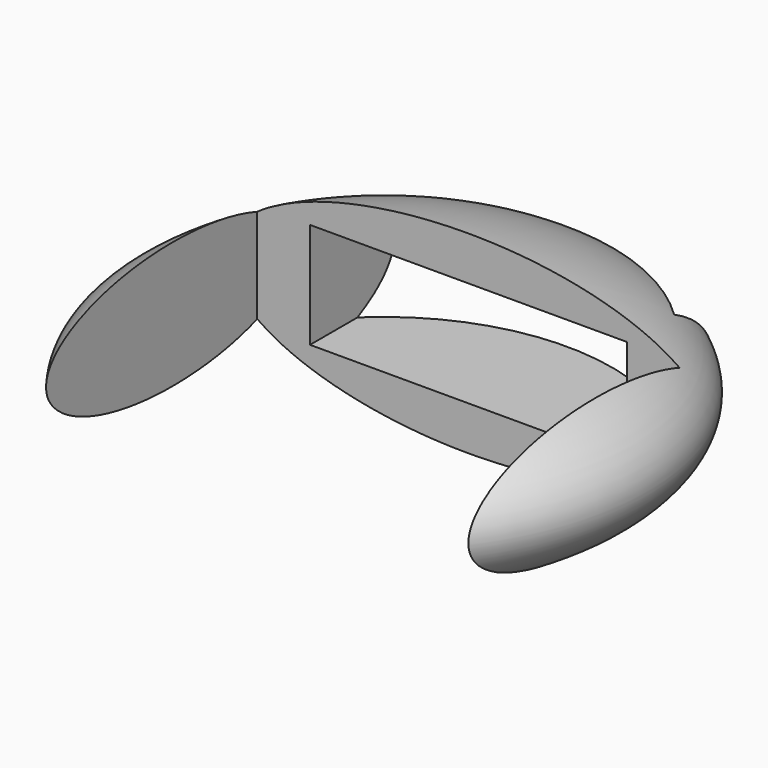
from build123d import *

# Parameters (mm, degrees)
F2_W     = 50.8
F2_H     = 50.8
F3_DEPTH = 12.7
F4_W     = 38.1
F4_H     = 12.7
F5_DEPTH = 25.4


with BuildPart() as f1:
    # F0 (on Front) → F1 (revolve)
    with BuildSketch(Plane.XZ):
        with BuildLine():
            Line((0, 12.7), (0, -12.7))
            add(Edge.make_bspline(
                [(0, -12.7), (31.75, -12.7), (31.75, 0), (31.75, 12.7), (0, 12.7)],
                knots=[1.5707963268, 1.5707963268, 1.5707963268, 3.1415926536, 3.1415926536, 4.7123889804, 4.7123889804, 4.7123889804], degree=2, weights=[1, 0.7071067812, 1, 0.7071067812, 1]))
        make_face()
    revolve(axis=Axis((0, 0, 0), (0, 0, -1)))

    # F2 (on Top) → F3 (cut, symmetric)
    with BuildSketch(Plane.XY):
        with Locations((0, -12.7)):
            Rectangle(F2_W, F2_H)
    extrude(amount=F3_DEPTH, both=True, mode=Mode.SUBTRACT)

    # F4 (on face) → F5 (cut)
    with BuildSketch(Plane.XZ.offset(-12.7)):
        Rectangle(F4_W, F4_H)
    extrude(amount=-F5_DEPTH, mode=Mode.SUBTRACT)


solid = f1.part
